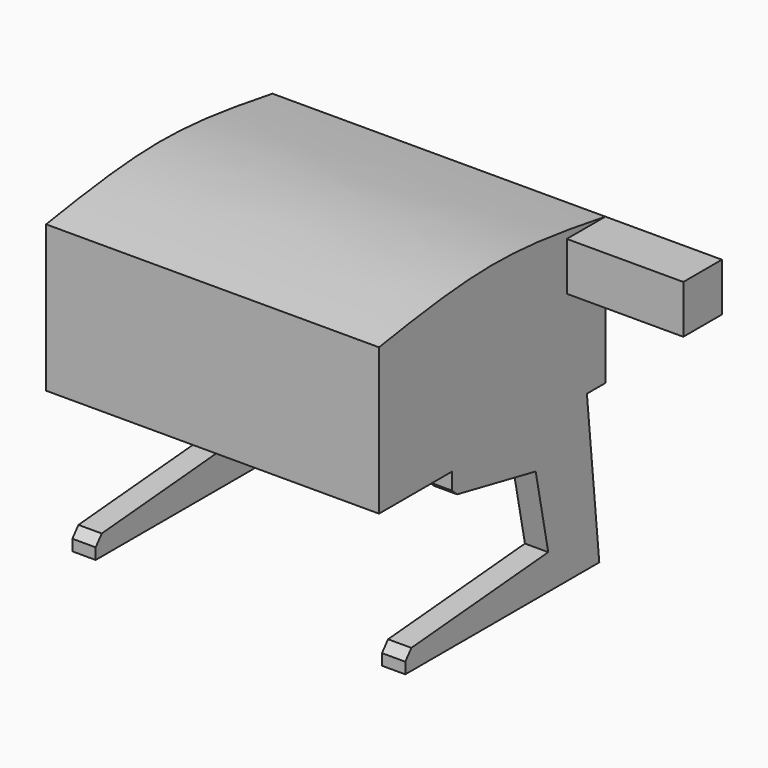
from build123d import *

# Parameters (mm, degrees)
F1_DEPTH = 1000
F2_W     = 145
F2_H     = 145
F3_DEPTH = 350
F5_DEPTH = 70
F8_W     = 73.3011215925
F8_H     = 54.268091917
F9_DEPTH = 860


with BuildPart() as f1:
    # F0 (on Right) → F1 (new body)
    with BuildSketch(Plane.YZ):
        with BuildLine():
            Line((-535.786010325, -296.8136846698), (314.213989675, -296.8136846698))
            Line((314.213989675, -296.8136846698), (314.213989675, 143.1863153302))
            add(Edge.make_bspline(
                [(314.213989675, 143.1863153302), (176.5867674254, 165.9648621816), (-101.8189451009, 210.2443102405), (-390.0428643628, 166.3108724655), (-535.786010325, 143.1863153302)],
                knots=[0, 0, 0, 0, 0.4943481252, 1, 1, 1, 1], degree=3))
            Line((-535.786010325, 143.1863153302), (-535.786010325, -296.8136846698))
        make_face()
    extrude(amount=F1_DEPTH)

    # F2 (on face) → F3 (join)
    with BuildSketch(Plane.YZ.offset(1000)):
        with Locations((241.713989675, 70.6863153302)):
            Rectangle(F2_W, F2_H)
    extrude(amount=F3_DEPTH)

    # F7: F5 across plane


with BuildPart() as f5:
    # F4 (on face) → F5 (new body)
    with BuildSketch(Plane.YZ.offset(1000)):
        Polygon((291.2076711655, -761.8098408201), (244.7297275066, -296.8136846698), (-262.2444331646, -296.8136846698), (-262.2444331646, -346.7207700231), (-242.4782663584, -364.9664670446), (52.4934381247, -424.2648929575), (99.6281057596, -656.8972617605), (-414.2917096615, -700.9909302213), (-437.098801136, -728.3594757536), (-437.098801136, -761.8098408201), align=None)
    extrude(amount=-F5_DEPTH)


with BuildPart() as f1_1:
    add(f1.part)
    add(f5.part.mirror(Plane(origin=(500, -120.4719590478, -66.200953195), x_dir=(0, 1, 0), z_dir=(-1, 0, 0))))


    add(f5.part)  # F9 merges F5
    # F8 (on face) → F9 (join, through all)
    with BuildSketch(Plane(origin=(930, 0, 0), x_dir=(0, -1, 0), z_dir=(-1, 0, 0))):
        with Locations((-162.7628132701, -476.7469912767)):
            Rectangle(F8_W, F8_H)
    extrude(amount=F9_DEPTH)


solid = f1_1.part
